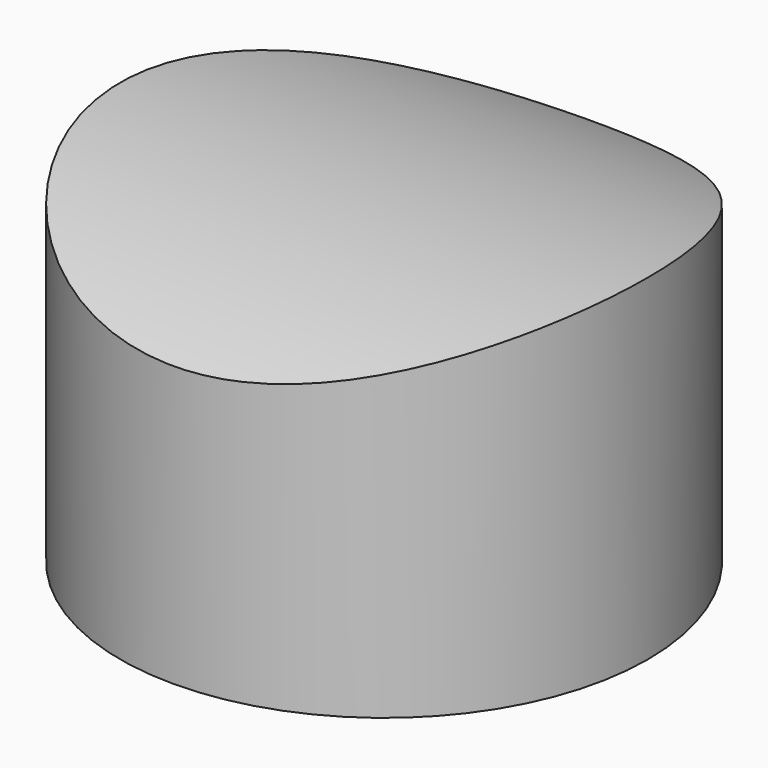
from build123d import *

# Parameters (mm, degrees)
F0_W     = 6
F0_H     = 3.5842586756
F3_DEPTH = 50


with BuildPart() as f1:
    # F0 (on Front) → F1 (revolve)
    with BuildSketch(Plane.XZ):
        with BuildLine():
            Line((44.75, 0), (0, 0))
            Line((0, 0), (0, -10))
            Line((0, -10), (24.5, -10))
            ThreePointArc((24.5, -10), (28.0355339059, -11.4644660941), (29.5, -15))
            Line((29.5, -15), (29.5, -48))
            Line((29.5, -48), (35.5, -48))
            Line((35.5, -48), (35.5, -51.5842586756))
            Line((35.5, -51.5842586756), (29.5, -51.5842586756))
            Line((29.5, -51.5842586756), (29.5, -57))
            Line((29.5, -57), (44.75, -57))
            Line((44.75, -57), (44.75, 0))
        make_face()
        with Locations((32.5, -49.7921293378)):
            Rectangle(F0_W, F0_H)
    revolve(axis=Axis((0, 0, -5), (0, 0, 1)))

    # F2 (on Right) → F3 (cut, symmetric)
    with BuildSketch(Plane.YZ):
        with BuildLine():
            Line((-45.7165178026, 10), (-45.7165178026, -10))
            ThreePointArc((-45.7165178026, -10), (0, 0), (45.7165178026, -10))
            Line((45.7165178026, -10), (45.7165178026, 10))
            Line((45.7165178026, 10), (-45.7165178026, 10))
        make_face()
    extrude(amount=F3_DEPTH, both=True, mode=Mode.SUBTRACT)


solid = f1.part
